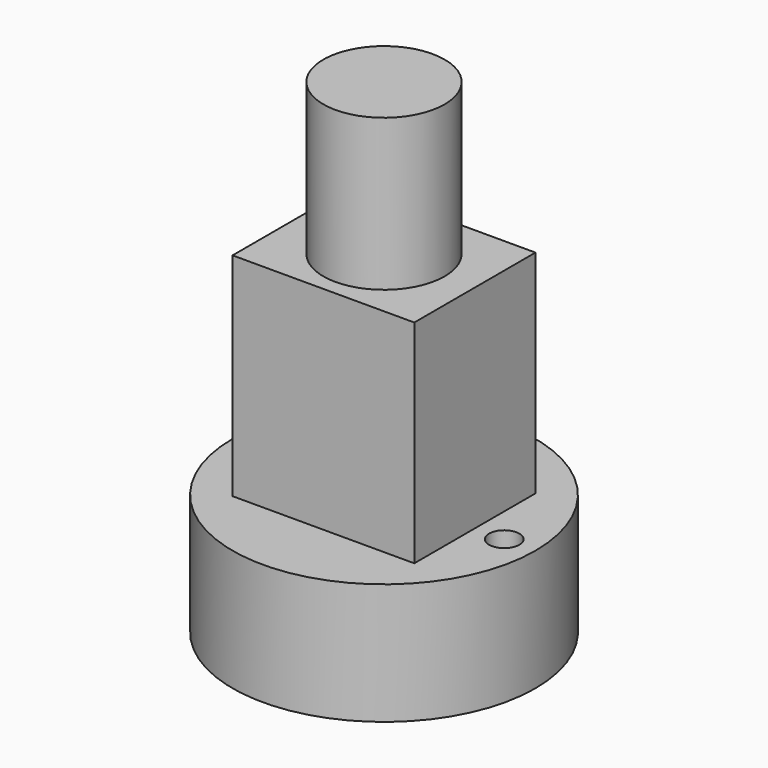
from build123d import *

# Parameters (mm, degrees)
SKETCH001_R       = 50
PAD_DEPTH         = 40
SKETCH004_R       = 5
POCKET_DEPTH      = 0.001
POCKET_DEPTH_BACK = 40.001
SKETCH002_W       = 60
SKETCH002_H       = 50
PAD001_DEPTH      = 70
PAD002_START      = 10
SKETCH003_R       = 20.024728
PAD002_DEPTH      = 110


with BuildPart() as bottom:
    # Sketch001 (on Sketch) → Pad (new body)
    with BuildSketch(Plane.XY):
        Circle(SKETCH001_R)
    extrude(amount=-PAD_DEPTH)

    # Sketch004 → Pocket (cut, two sides)
    with BuildSketch(Plane.XY) as pocket_sk:
        with Locations((-40.313147, 0)):
            Circle(SKETCH004_R)
        with Locations((39.686853, 0)):
            Circle(SKETCH004_R)
    extrude(amount=POCKET_DEPTH, mode=Mode.SUBTRACT)
    extrude(pocket_sk.sketch, amount=-POCKET_DEPTH_BACK, mode=Mode.SUBTRACT)


with BuildPart() as body:
    # Sketch002 → Pad001 (new body)
    with BuildSketch(Plane.XY):
        Rectangle(SKETCH002_W, SKETCH002_H)
    extrude(amount=PAD001_DEPTH)


with BuildPart() as top:
    # Sketch003 → Pad002 (new body)
    with BuildSketch(Plane.XY.offset(PAD002_START)):
        Circle(SKETCH003_R)
    extrude(amount=PAD002_DEPTH)


solid = Compound([bottom.part, body.part, top.part])
